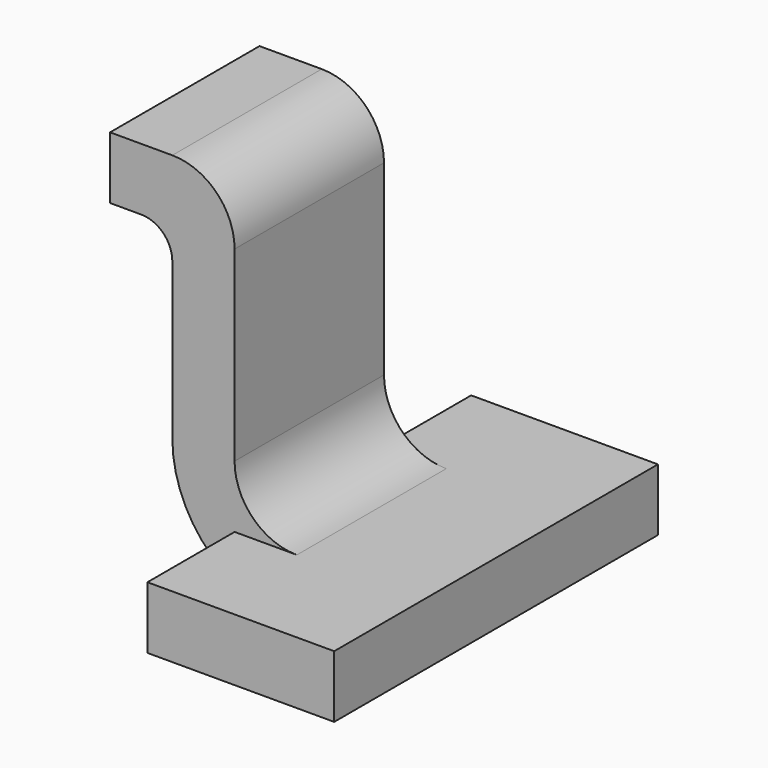
from build123d import *

# Parameters (mm, degrees)
BOX036_W     = 0.6
BOX036_H     = 1.3
BOX036_DEPTH = 0.2
PAD001_DEPTH = 0.6


with BuildPart() as kub036:
    # Box036 → Box036 (new body)
    with BuildSketch(Plane(origin=(2.5, -0.65, 0), x_dir=(1, 0, 0), z_dir=(0, 0, 1))):
        with Locations((0.3, 0.65)):
            Rectangle(BOX036_W, BOX036_H)
    extrude(amount=BOX036_DEPTH)


with BuildPart() as fusion004:
    # Sketch001 → Pad001 (new body)
    with BuildSketch(Plane.XZ):
        with BuildLine():
            ThreePointArc((3.7, 1), (3.641421, 1.141421), (3.5, 1.2))
            Line((3.5, 1.2), (3.3, 1.2))
            Line((3.3, 1.2), (3.3, 1))
            Line((3.3, 1), (3.4, 1))
            ThreePointArc((3.5, 0.9), (3.470711, 0.970711), (3.4, 1))
            Line((3.5, 0.4), (3.5, 0.9))
            ThreePointArc((3.5, 0.4), (3.617157, 0.117157), (3.9, 0))
            Line((4, 0), (3.9, 0))
            Line((4, 0.2), (4, 0))
            Line((3.9, 0.2), (4, 0.2))
            ThreePointArc((3.7, 0.4), (3.758579, 0.258579), (3.9, 0.2))
            Line((3.7, 1), (3.7, 0.4))
        make_face()
    extrude(amount=PAD001_DEPTH)


with BuildPart() as fusion004_1:
    # Body001 placement: moved
    add(fusion004.part.moved(Location((-1.2, 0.3, 0))))

    # Fusion004: union Kub036
    add(kub036.part)


solid = fusion004_1.part
